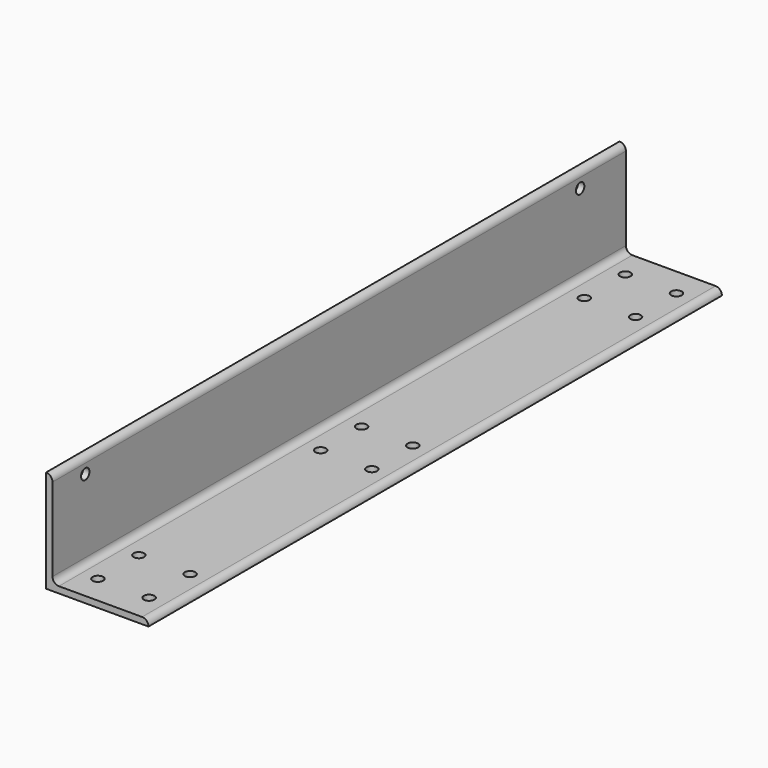
from build123d import *

# Parameters (mm, degrees)
F1_DEPTH = 355.6
F2_R     = 2.6162
F3_DEPTH = 3.176
F4_R     = 2.6162
F5_DEPTH = 50.801


with BuildPart() as f1:
    # F0 (on Front) → F1 (new body)
    with BuildSketch(Plane.XZ):
        with BuildLine():
            Line((-50.8, 0), (0, 0))
            ThreePointArc((0, 0), (-0.929936, 2.245064), (-3.175, 3.175))
            Line((-3.175, 3.175), (-44.45, 3.175))
            ThreePointArc((-44.45, 3.175), (-46.695064, 4.104936), (-47.625, 6.35))
            Line((-47.625, 6.35), (-47.625, 47.625))
            ThreePointArc((-47.625, 47.625), (-48.554936, 49.870064), (-50.8, 50.8))
            Line((-50.8, 50.8), (-50.8, 0))
        make_face()
    extrude(amount=F1_DEPTH)

    # F2 (on face) → F3 (cut, through all)
    with BuildSketch(Plane.XY.offset(3.175)):
        with Locations((-36.5125, -341.3125)):
            Circle(F2_R)
        with Locations((-36.5125, -14.2875)):
            Circle(F2_R)
        with Locations((-36.5125, -177.8)):
            Circle(F2_R)
        with Locations((-11.1125, -14.2875)):
            Circle(F2_R)
        with Locations((-36.5125, -203.2)):
            Circle(F2_R)
        with Locations((-11.1125, -203.2)):
            Circle(F2_R)
        with Locations((-11.1125, -177.8)):
            Circle(F2_R)
        with Locations((-11.1125, -341.3125)):
            Circle(F2_R)
        with Locations((-11.1125, -315.9125)):
            Circle(F2_R)
        with Locations((-36.5125, -315.9125)):
            Circle(F2_R)
        with Locations((-11.1125, -39.6875)):
            Circle(F2_R)
        with Locations((-36.5125, -39.6875)):
            Circle(F2_R)
    extrude(amount=-F3_DEPTH, mode=Mode.SUBTRACT)

    # F4 (on face) → F5 (cut, through all)
    with BuildSketch(Plane(origin=(-50.8, 0, 0), x_dir=(0, -1, 0), z_dir=(-1, 0, 0))):
        with Locations((28.3972, 42.8625)):
            Circle(F4_R)
        with Locations((335.28, 42.8625)):
            Circle(F4_R)
    extrude(amount=-F5_DEPTH, mode=Mode.SUBTRACT)


solid = f1.part
